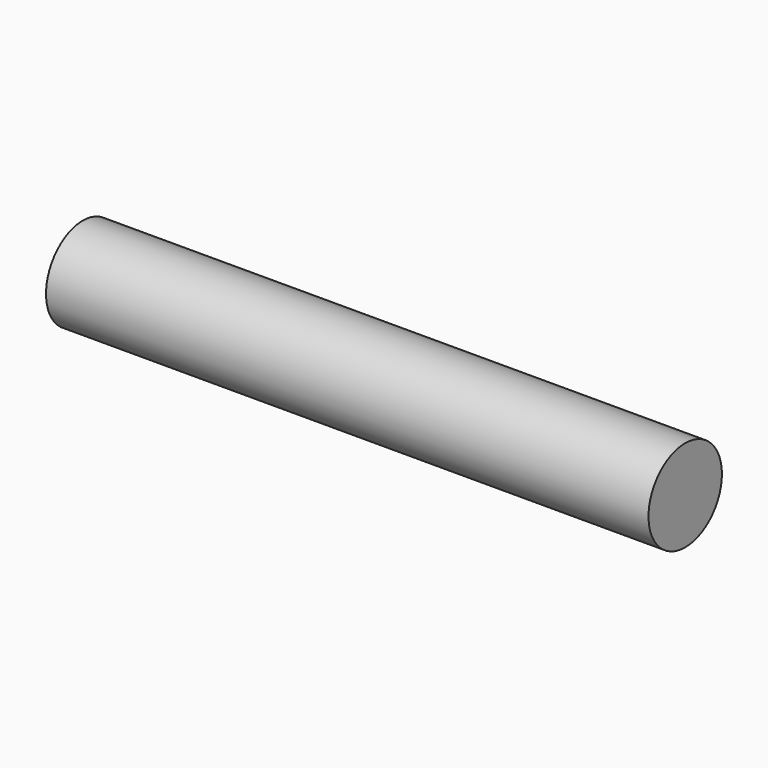
from build123d import *

# Parameters (mm, degrees)
F1_R = 4.572


with BuildPart() as f2:
    # F2: sweep along a path in F0
    with BuildLine(Plane.XY) as f2_path:
        Line((-60.030198, 0), (0, 0))
    # F1 (on Right) → F2 (sweep)
    with BuildSketch(Plane.YZ):
        Circle(F1_R)
    sweep(path=f2_path.line)


solid = f2.part
